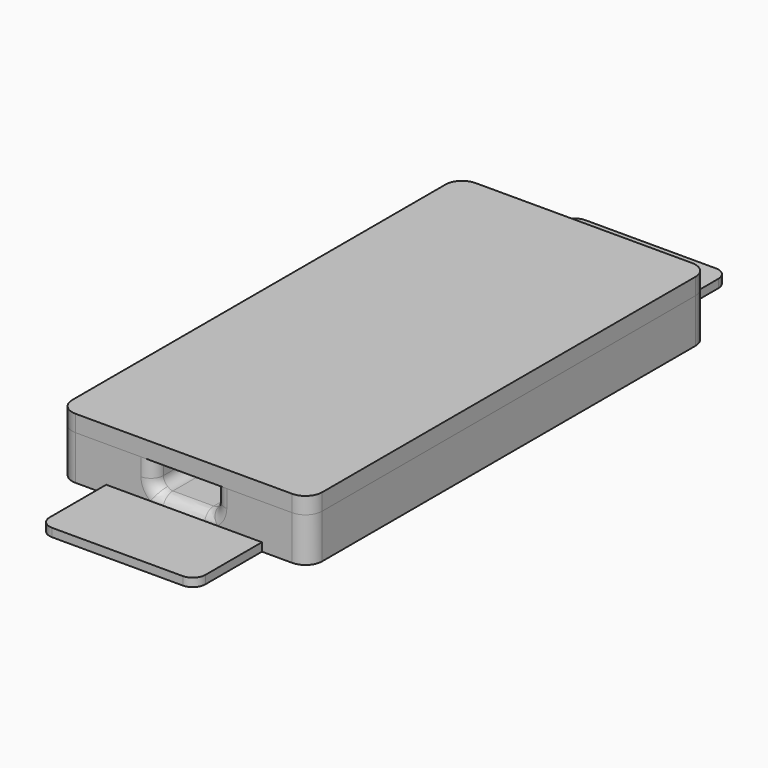
from build123d import *

# Parameters (mm, degrees)
F1_DEPTH      = 60
F2_W          = 5.35
F2_H          = 54
F3_DEPTH      = 4
F4_R          = 2
F5_W          = 18.692020604
F5_H          = 10
F6_DEPTH      = 1
F7_R          = 1.5
F9_DEPTH      = 3.5
F9_DEPTH_BACK = 2
F10_DEPTH     = 2


with BuildPart() as f1:
    # F0 (on Front) → F1 (new body)
    with BuildSketch(Plane.XZ):
        with BuildLine():
            Line((-15.021010302, 0), (0, 0))
            Line((0, 0), (14.978989698, 0))
            Line((14.978989698, 0), (14.978989698, 5.3))
            Line((14.978989698, 5.3), (3.628989698, 5.3))
            Line((3.628989698, 5.3), (3.628989698, 3.2))
            ThreePointArc((3.628989698, 3.2), (3.2775178354, 2.3514718626), (2.428989698, 2))
            Line((2.428989698, 2), (0.203989698, 2))
            Line((0.203989698, 2), (-0.246010302, 2))
            Line((-0.246010302, 2), (-2.471010302, 2))
            ThreePointArc((-2.471010302, 2), (-3.3195384394, 2.3514718626), (-3.671010302, 3.2))
            Line((-3.671010302, 3.2), (-3.671010302, 5.3))
            Line((-3.671010302, 5.3), (-15.021010302, 5.3))
            Line((-15.021010302, 5.3), (-15.021010302, 0))
        make_face()
    extrude(amount=F1_DEPTH)

    # F2 (on face) → F3 (cut)
    with BuildSketch(Plane.XY.offset(5.3)):
        with Locations((-9.346010302, -30)):
            Rectangle(F2_W, F2_H)
        with Locations((9.346010302, -30)):
            Rectangle(F2_W, F2_H)
    extrude(amount=-F3_DEPTH, mode=Mode.SUBTRACT)

    # F4
    f4_edges = [f1.edges().sort_by_distance(p)[0] for p in [
        (-6.67101, -3, 3.3),
        (-12.02101, -3, 3.3),
        (-12.02101, -57, 3.3),
        (-6.67101, -57, 3.3),
        (6.67101, -3, 3.3),
        (12.02101, -3, 3.3),
        (6.67101, -57, 3.3),
        (12.02101, -57, 3.3),
        (-15.02101, 0, 2.65),
        (14.97899, 0, 2.65),
        (14.97899, -60, 2.65),
        (-15.02101, -60, 2.65),
    ]]
    fillet(f4_edges, radius=F4_R)

    # F5 (on Top) → F6 (join)
    with BuildSketch(Plane.XY):
        with Locations((0, 5)):
            Rectangle(F5_W, F5_H)
        with Locations((0, -65)):
            Rectangle(F5_W, F5_H)
    extrude(amount=F6_DEPTH)

    # F7
    f7_edges = [f1.edges().sort_by_distance(p)[0] for p in [
        (-9.34601, -70, 0.5),
        (9.34601, -70, 0.5),
        (-0.02101, -60, 2),
        (-0.02101, 0, 2),
        (-9.34601, 10, 0.5),
        (9.34601, 10, 0.5),
    ]]
    fillet(f7_edges, radius=F7_R)


with BuildPart() as f9:
    # F8 (on face) → F9 (new body, two sides)
    with BuildSketch(Plane.XY.offset(5.3)) as f9_sk:
        with BuildLine():
            Line((11.521010302, -55), (11.521010302, -5))
            ThreePointArc((11.521010302, -5), (11.0816704738, -3.9393398282), (10.021010302, -3.5))
            Line((10.021010302, -3.5), (8.671010302, -3.5))
            ThreePointArc((8.671010302, -3.5), (7.6103501302, -3.9393398282), (7.171010302, -5))
            Line((7.171010302, -5), (7.171010302, -55))
            ThreePointArc((7.171010302, -55), (7.6103501302, -56.0606601718), (8.671010302, -56.5))
            Line((8.671010302, -56.5), (10.021010302, -56.5))
            ThreePointArc((10.021010302, -56.5), (11.0816704738, -56.0606601718), (11.521010302, -55))
        make_face()
    extrude(amount=-F9_DEPTH)
    extrude(f9_sk.sketch, amount=F9_DEPTH_BACK)



with BuildPart() as f9b:
    # F8 (on face) → F9, piece 2 (new body, two sides)
    with BuildSketch(Plane.XY.offset(5.3)) as f9_2_sk:
        with BuildLine():
            ThreePointArc((-7.171010302, -5), (-7.6103501302, -3.9393398282), (-8.671010302, -3.5))
            Line((-8.671010302, -3.5), (-10.021010302, -3.5))
            ThreePointArc((-10.021010302, -3.5), (-11.0816704738, -3.9393398282), (-11.521010302, -5))
            Line((-11.521010302, -5), (-11.521010302, -55))
            ThreePointArc((-11.521010302, -55), (-11.0816704738, -56.0606601718), (-10.021010302, -56.5))
            Line((-10.021010302, -56.5), (-8.671010302, -56.5))
            ThreePointArc((-8.671010302, -56.5), (-7.6103501302, -56.0606601718), (-7.171010302, -55))
            Line((-7.171010302, -55), (-7.171010302, -5))
        make_face()
    extrude(amount=-F9_DEPTH)
    extrude(f9_2_sk.sketch, amount=F9_DEPTH_BACK)


with BuildPart() as f9_1:
    add(f9.part)

    add(f9b.part)  # F10 merges F9b
    # F8 (on face) → F10 (join)
    with BuildSketch(Plane.XY.offset(5.3)):
        with BuildLine():
            Line((-15.021010302, -2), (-15.021010302, -58))
            ThreePointArc((-15.021010302, -58), (-14.4352238644, -59.4142135624), (-13.021010302, -60))
            Line((-13.021010302, -60), (-5.171010302, -60))
            ThreePointArc((-5.171010302, -60), (-4.1103501302, -59.5606601718), (-3.671010302, -58.5))
            Line((-3.671010302, -58.5), (-3.671010302, -1.5))
            ThreePointArc((-3.671010302, -1.5), (-4.1103501302, -0.4393398282), (-5.171010302, 0))
            Line((-5.171010302, 0), (-13.021010302, 0))
            ThreePointArc((-13.021010302, 0), (-14.4352238644, -0.5857864376), (-15.021010302, -2))
        make_face()
        with BuildLine():
            Line((-12.021010302, -55), (-12.021010302, -5))
            ThreePointArc((-12.021010302, -5), (-11.4352238644, -3.5857864376), (-10.021010302, -3))
            Line((-10.021010302, -3), (-8.671010302, -3))
            ThreePointArc((-8.671010302, -3), (-7.2567967396, -3.5857864376), (-6.671010302, -5))
            Line((-6.671010302, -5), (-6.671010302, -55))
            ThreePointArc((-6.671010302, -55), (-7.2567967396, -56.4142135624), (-8.671010302, -57))
            Line((-8.671010302, -57), (-10.021010302, -57))
            ThreePointArc((-10.021010302, -57), (-11.4352238644, -56.4142135624), (-12.021010302, -55))
        make_face(mode=Mode.SUBTRACT)
        with BuildLine():
            ThreePointArc((-3.671010302, -58.5), (-4.1103501302, -59.5606601718), (-5.171010302, -60))
            Line((-5.171010302, -60), (5.128989698, -60))
            Line((5.128989698, -60), (12.978989698, -60))
            ThreePointArc((12.978989698, -60), (14.3932032604, -59.4142135624), (14.978989698, -58))
            Line((14.978989698, -58), (14.978989698, -2))
            ThreePointArc((14.978989698, -2), (14.3932032604, -0.5857864376), (12.978989698, 0))
            Line((12.978989698, 0), (5.128989698, 0))
            Line((5.128989698, 0), (-5.171010302, 0))
            ThreePointArc((-5.171010302, 0), (-4.1103501302, -0.4393398282), (-3.671010302, -1.5))
            Line((-3.671010302, -1.5), (-3.671010302, -58.5))
        make_face()
        with BuildLine():
            ThreePointArc((10.021010302, -3.5), (11.0816704738, -3.9393398282), (11.521010302, -5))
            Line((11.521010302, -5), (11.521010302, -55))
            ThreePointArc((11.521010302, -55), (11.0816704738, -56.0606601718), (10.021010302, -56.5))
            Line((10.021010302, -56.5), (8.671010302, -56.5))
            ThreePointArc((8.671010302, -56.5), (7.6103501302, -56.0606601718), (7.171010302, -55))
            Line((7.171010302, -55), (7.171010302, -5))
            ThreePointArc((7.171010302, -5), (7.6103501302, -3.9393398282), (8.671010302, -3.5))
            Line((8.671010302, -3.5), (10.021010302, -3.5))
        make_face(mode=Mode.SUBTRACT)
        with BuildLine():
            ThreePointArc((-10.021010302, -3), (-11.4352238644, -3.5857864376), (-12.021010302, -5))
            Line((-12.021010302, -5), (-12.021010302, -55))
            ThreePointArc((-12.021010302, -55), (-11.4352238644, -56.4142135624), (-10.021010302, -57))
            Line((-10.021010302, -57), (-8.671010302, -57))
            ThreePointArc((-8.671010302, -57), (-7.2567967396, -56.4142135624), (-6.671010302, -55))
            Line((-6.671010302, -55), (-6.671010302, -5))
            ThreePointArc((-6.671010302, -5), (-7.2567967396, -3.5857864376), (-8.671010302, -3))
            Line((-8.671010302, -3), (-10.021010302, -3))
        make_face()
        with BuildLine():
            Line((-10.021010302, -3.5), (-8.671010302, -3.5))
            ThreePointArc((-8.671010302, -3.5), (-7.6103501302, -3.9393398282), (-7.171010302, -5))
            Line((-7.171010302, -5), (-7.171010302, -55))
            ThreePointArc((-7.171010302, -55), (-7.6103501302, -56.0606601718), (-8.671010302, -56.5))
            Line((-8.671010302, -56.5), (-10.021010302, -56.5))
            ThreePointArc((-10.021010302, -56.5), (-11.0816704738, -56.0606601718), (-11.521010302, -55))
            Line((-11.521010302, -55), (-11.521010302, -5))
            ThreePointArc((-11.521010302, -5), (-11.0816704738, -3.9393398282), (-10.021010302, -3.5))
        make_face(mode=Mode.SUBTRACT)
    extrude(amount=F10_DEPTH)


solid = Compound([f1.part, f9_1.part])
